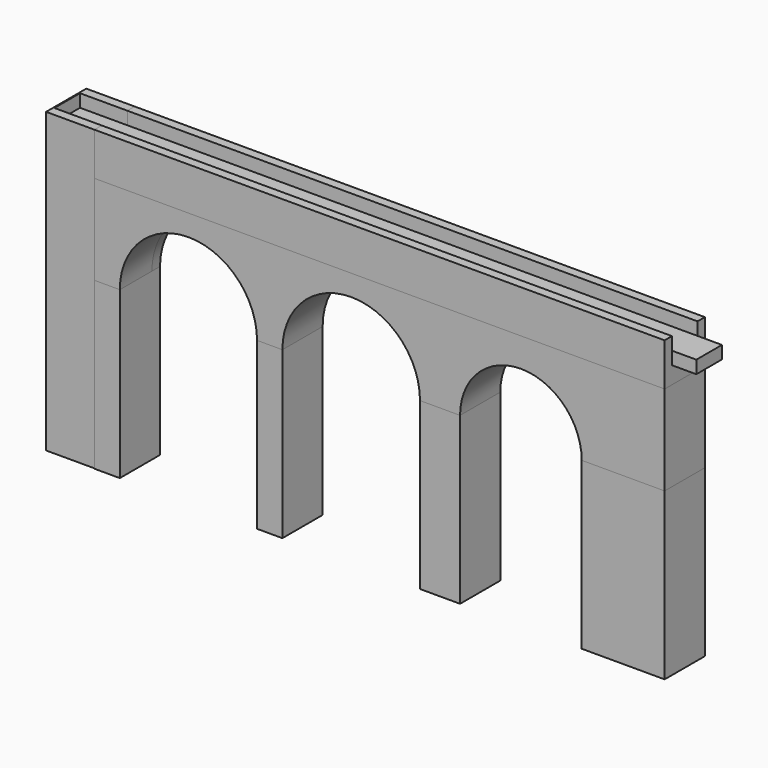
from build123d import *

# Parameters (mm, degrees)
F0_W      = 31.6595733166
F0_H      = 31.0939885676
F1_DEPTH  = 163.576
F0_W_2    = 30.6557416916
F0_H_2    = 31.8693220615
F2_DEPTH  = 25.4
F3_W      = 30.6557416916
F3_H      = 31.8693220615
F4_DEPTH  = 25.4
F5_W      = 31.8693220615
F5_H      = 27.1559161434
F6_DEPTH  = 361.442
F7_W      = 385.542601347
F7_H      = 20.2748756856
F8_DEPTH  = 16.256
F9_DEPTH  = 75.438
F10_W     = 361.442
F10_H     = 31.8693220615
F11_DEPTH = 56.896
F12_R     = 43.6075733788
F13_DEPTH = 114.046
F14_R     = 43.4846750127
F15_DEPTH = 25.4
F16_DEPTH = 183.134
F17_R     = 38.5553943077
F18_DEPTH = 45.974
F19_DEPTH = 105.156
F20_W     = 20.2748756856
F20_H     = 8.128
F21_DEPTH = 406.908


with BuildPart() as f1:
    # F0 (on Top) → F1 (new body)
    with BuildSketch(Plane.XY):
        with Locations((176.4155030251, 0)):
            Rectangle(F0_W, F0_H)
    extrude(amount=F1_DEPTH)


with BuildPart() as f1b:
    # F0 (on Top) → F1, piece 2 (new body)
    with BuildSketch(Plane.XY):
        with Locations((-178.0872792006, 0)):
            Rectangle(F0_W_2, F0_H_2)
    extrude(amount=F1_DEPTH)

    # F2 (add): a face of the model
    f2_faces = [f1b.faces().sort_by_distance(p)[0] for p in [
        (-178.0872792006, 0, 163.576),
    ]]
    extrude(f2_faces, amount=F2_DEPTH)

    # F3 (on face) → F4 (join)
    with BuildSketch(Plane.XY.offset(188.976)):
        with Locations((-178.0872792006, 0)):
            Rectangle(F3_W, F3_H)
    extrude(amount=-F4_DEPTH)


with BuildPart() as f6:
    # F5 (on face) → F6 (new body)
    with BuildSketch(Plane.YZ.offset(-162.7594083548)):
        with Locations((0, 175.3980419283)):
            Rectangle(F5_W, F5_H)
    extrude(amount=F6_DEPTH)


with BuildPart() as f8_tool:
    # F7 (on face) → F8 (new body)
    with BuildSketch(Plane.XY.offset(188.976)):
        Rectangle(F7_W, F7_H)
    extrude(amount=-F8_DEPTH)


with BuildPart() as f1b_1:
    add(f1b.part)

    # F8: cut by f8_tool
    add(f8_tool.part, mode=Mode.SUBTRACT)


with BuildPart() as f6_1:
    add(f6.part)

    # F8: cut by f8_tool
    add(f8_tool.part, mode=Mode.SUBTRACT)

    # F9 (cut): a face of the model
    f9_faces = [f6_1.faces().sort_by_distance(p)[0] for p in [
        (192.7713006735, 0, 180.848),
    ]]
    extrude(f9_faces, amount=-F9_DEPTH, mode=Mode.SUBTRACT)


with BuildPart() as f11:
    # F10 (on face) → F11 (new body)
    with BuildSketch(Plane(origin=(0, 0, 161.8200838566), x_dir=(1, 0, 0), z_dir=(0, 0, -1))):
        with Locations((17.9615916452, 0)):
            Rectangle(F10_W, F10_H)
    extrude(amount=F11_DEPTH)

    # F12 (on face) → F13 (cut)
    with BuildSketch(Plane.XZ.offset(15.9346610308)):
        with Locations((0, 104.9240838566)):
            Circle(F12_R)
    extrude(amount=-F13_DEPTH, mode=Mode.SUBTRACT)

    # F14 (on face) → F15 (cut)
    with BuildSketch(Plane.XZ.offset(15.9346610308)):
        with Locations((-103.1834908668, 104.9240838566)):
            Circle(F14_R)
    extrude(amount=-F15_DEPTH, mode=Mode.SUBTRACT)

    # F16 (cut): a face of the model
    f16_faces = [f11.faces().sort_by_distance(p)[0] for p in [
        (-103.1834908668, 9.4653389692, 123.3795531286),
    ]]
    extrude(f16_faces, amount=-F16_DEPTH, mode=Mode.SUBTRACT)

    # F17 (on face) → F18 (cut)
    with BuildSketch(Plane.XZ.offset(15.9346610308)):
        with Locations((107.5606942177, 104.9240838566)):
            Circle(F17_R)
    extrude(amount=-F18_DEPTH, mode=Mode.SUBTRACT)


with BuildPart() as f19:
    # F19 (new): a face of the model
    f19_faces = [f11.part.faces().sort_by_distance(p)[0] for p in [
        (-51.6531946164, 0, 104.9240838566),
    ]]
    extrude(f19_faces, amount=F19_DEPTH)


with BuildPart() as f19b:
    # F19#2 (new): a face of the model
    f19_2_faces = [f11.part.faces().sort_by_distance(p)[0] for p in [
        (56.3064366444, 0, 104.9240838566),
    ]]
    extrude(f19_2_faces, amount=F19_DEPTH)


with BuildPart() as f19c:
    # F19#3 (new): a face of the model
    f19_3_faces = [f11.part.faces().sort_by_distance(p)[0] for p in [
        (-154.7137871171, 0, 104.9240838566),
    ]]
    extrude(f19_3_faces, amount=F19_DEPTH)


with BuildPart() as f19d:
    # F19#4 (new): a face of the model
    f19_4_faces = [f11.part.faces().sort_by_distance(p)[0] for p in [
        (172.3993400853, 0, 104.9240838566),
    ]]
    extrude(f19_4_faces, amount=F19_DEPTH)


with BuildPart() as f21:
    # F20 (on face) → F21 (new body)
    with BuildSketch(Plane.YZ.offset(-192.7713006735)):
        with Locations((0, 176.784)):
            Rectangle(F20_W, F20_H)
    extrude(amount=F21_DEPTH)


solid = Compound([f1.part, f1b_1.part, f6_1.part, f11.part, f19.part, f19b.part, f19c.part, f19d.part, f21.part])
